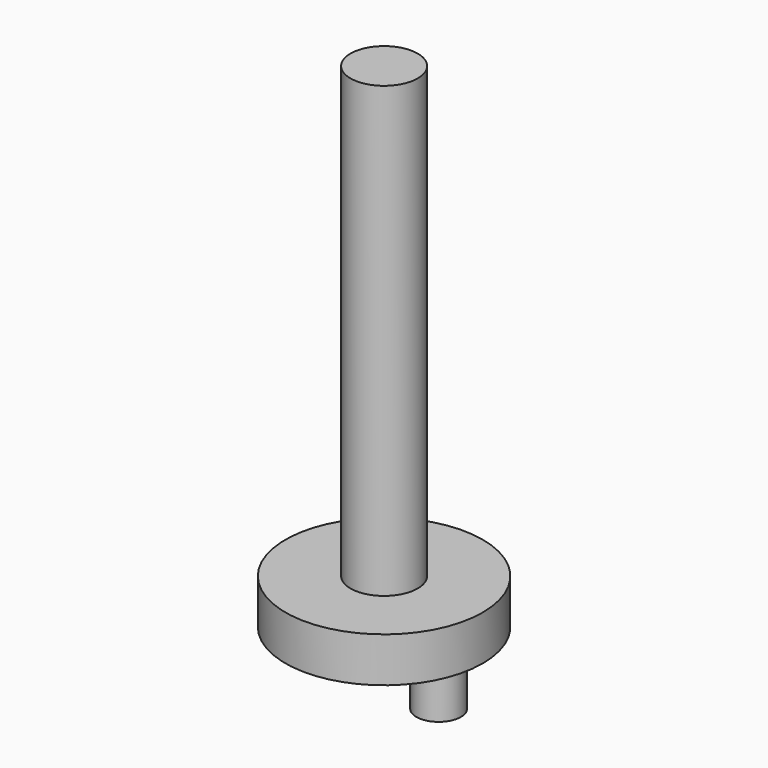
from build123d import *

# Parameters (mm, degrees)
F0_R     = 6.985
F0_R_2   = 2.38125
F0_R_3   = 1.5748
F1_DEPTH = 3.175
F2_DEPTH = 34.9758
F3_DEPTH = 7.0612


with BuildPart() as f1:
    # F0 (on Top) → F1 (new body)
    with BuildSketch(Plane.XY):
        Circle(F0_R)
        Circle(F0_R_2, mode=Mode.SUBTRACT)
        with Locations((0, 4.826)):
            Circle(F0_R_3, mode=Mode.SUBTRACT)
        with Locations((0, 4.826)):
            Circle(F0_R_3)
    extrude(amount=F1_DEPTH)

    # F0 (on Top) → F2 (join)
    with BuildSketch(Plane.XY):
        Circle(F0_R_2)
    extrude(amount=F2_DEPTH)

    # F0 (on Top) → F3 (join)
    with BuildSketch(Plane.XY):
        with Locations((0, 4.826)):
            Circle(F0_R_3)
    extrude(amount=-F3_DEPTH)


solid = f1.part
